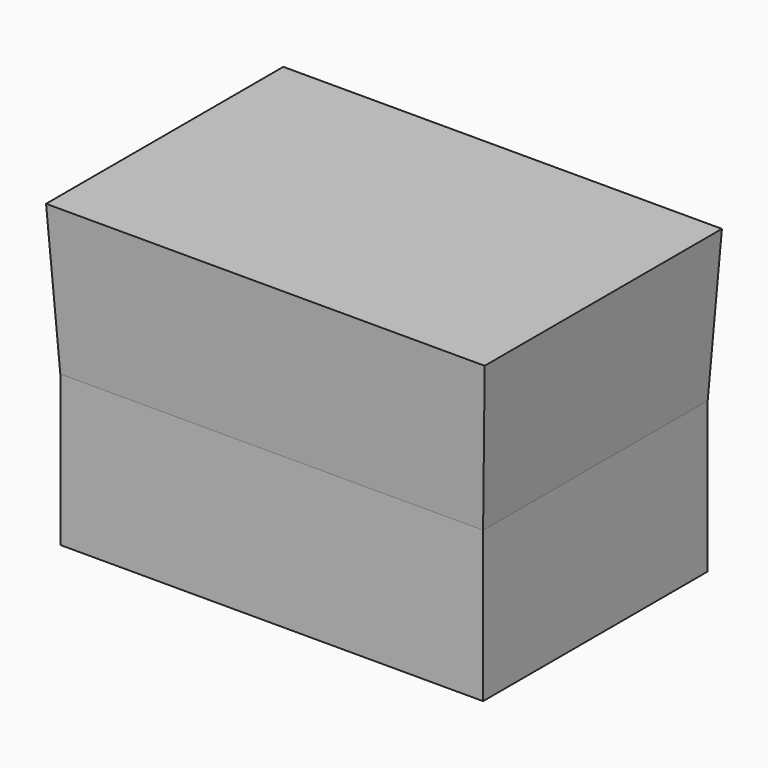
from build123d import *

# Parameters (mm, degrees)
F0_W          = 71.3502541184
F0_H          = 47.3797805607
F1_DEPTH      = 25.4
F1_TAPER      = -3
F1_DEPTH_BACK = 25.4


with BuildPart() as f1:
    # F0 (on Top) → F1 (new body, two sides)
    with BuildSketch(Plane.XY) as f1_sk:
        with Locations((35.6751270592, 23.6898902804)):
            Rectangle(F0_W, F0_H)
    extrude(amount=F1_DEPTH, taper=F1_TAPER)
    extrude(f1_sk.sketch, amount=-F1_DEPTH_BACK)


solid = f1.part
